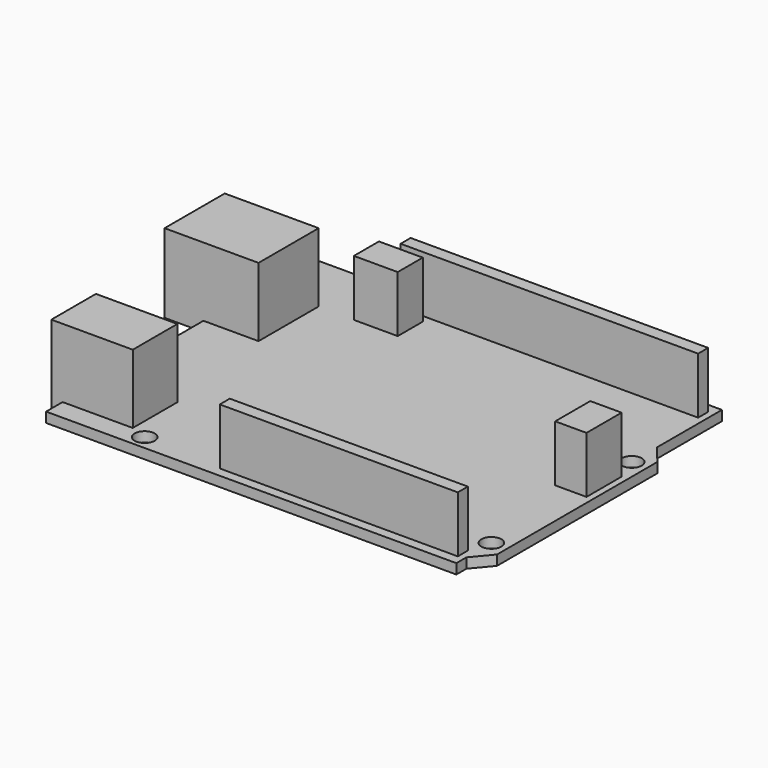
from build123d import *

# Parameters (mm, degrees)
F0_R     = 1.6
F0_W     = 38
F0_H     = 2
F0_W_2   = 7
F0_H_2   = 5
F0_W_3   = 5
F0_H_3   = 7
F0_W_4   = 47.5
F1_DEPTH = 1.6
F0_W_5   = 6.2
F0_H_4   = 12
F0_W_6   = 8.8
F0_W_7   = 1.8
F0_H_5   = 8.9
F0_W_8   = 11.2
F2_DEPTH = 12.6
F3_DEPTH = 10.6
F4_R     = 3.175
F5_DEPTH = 12.7


with BuildPart() as f1:
    # F0 (on Top) → F1 (new body)
    with BuildSketch(Plane.XY):
        Polygon((31.5, 13.5), (31.5, 26.5), (-34, 26.5), (-34, 16.9), (-25.2, 16.9), (-25.2, 4.9), (-34, 4.9), (-34, -14.3), (-22.8, -14.3), (-22.8, -23.2), (-34, -23.2), (-34, -26.5), (31.5, -26.5), (31.5, -24.5), (34, -21.5), (34, 10.5), align=None)
        with Locations((-20.1, -24.2)):
            Circle(F0_R, mode=Mode.SUBTRACT)
        with Locations((11.5, -23.96)):
            Rectangle(F0_W, F0_H, mode=Mode.SUBTRACT)
        with Locations((31.5, -19.5)):
            Circle(F0_R, mode=Mode.SUBTRACT)
        with Locations((-16, 19.3)):
            Rectangle(F0_W_2, F0_H_2, mode=Mode.SUBTRACT)
        with Locations((-19, 24)):
            Circle(F0_R, mode=Mode.SUBTRACT)
        with Locations((30.5, 1.1)):
            Rectangle(F0_W_3, F0_H_3, mode=Mode.SUBTRACT)
        with Locations((31.5, 8.5)):
            Circle(F0_R, mode=Mode.SUBTRACT)
        with Locations((6.75, 24)):
            Rectangle(F0_W_4, F0_H, mode=Mode.SUBTRACT)
        Polygon((31.5, 13.5), (31.5, 26.5), (-34, 26.5), (-34, 16.9), (-25.2, 16.9), (-25.2, 4.9), (-34, 4.9), (-34, -14.3), (-22.8, -14.3), (-22.8, -23.2), (-34, -23.2), (-34, -26.5), (31.5, -26.5), (31.5, -24.5), (34, -21.5), (34, 10.5), align=None)
        with Locations((-20.1, -24.2)):
            Circle(F0_R, mode=Mode.SUBTRACT)
        with Locations((11.5, -23.96)):
            Rectangle(F0_W, F0_H, mode=Mode.SUBTRACT)
        with Locations((31.5, -19.5)):
            Circle(F0_R, mode=Mode.SUBTRACT)
        with Locations((-16, 19.3)):
            Rectangle(F0_W_2, F0_H_2, mode=Mode.SUBTRACT)
        with Locations((-19, 24)):
            Circle(F0_R, mode=Mode.SUBTRACT)
        with Locations((30.5, 1.1)):
            Rectangle(F0_W_3, F0_H_3, mode=Mode.SUBTRACT)
        with Locations((31.5, 8.5)):
            Circle(F0_R, mode=Mode.SUBTRACT)
        with Locations((6.75, 24)):
            Rectangle(F0_W_4, F0_H, mode=Mode.SUBTRACT)
    extrude(amount=F1_DEPTH)

    # F0 (on Top) → F2 (join)
    with BuildSketch(Plane.XY):
        with Locations((-37.1, 10.9)):
            Rectangle(F0_W_5, F0_H_4)
        with Locations((-29.6, 10.9)):
            Rectangle(F0_W_6, F0_H_4)
        with Locations((-34.9, -18.75)):
            Rectangle(F0_W_7, F0_H_5)
        with Locations((-28.4, -18.75)):
            Rectangle(F0_W_8, F0_H_5)
    extrude(amount=F2_DEPTH)

    # F0 (on Top) → F3 (join)
    with BuildSketch(Plane.XY):
        with Locations((6.75, 24)):
            Rectangle(F0_W_4, F0_H)
        with Locations((11.5, -23.96)):
            Rectangle(F0_W, F0_H)
        with Locations((-16, 19.3)):
            Rectangle(F0_W_2, F0_H_2)
        with Locations((30.5, 1.1)):
            Rectangle(F0_W_3, F0_H_3)
    extrude(amount=F3_DEPTH)

    # F4 (on face) → F5 (cut)
    with BuildSketch(Plane(origin=(-35.8, 0, 0), x_dir=(0, -1, 0), z_dir=(-1, 0, 0))):
        with Locations((18.745, 7.823)):
            Circle(F4_R)
    extrude(amount=-F5_DEPTH, mode=Mode.SUBTRACT)


solid = f1.part
